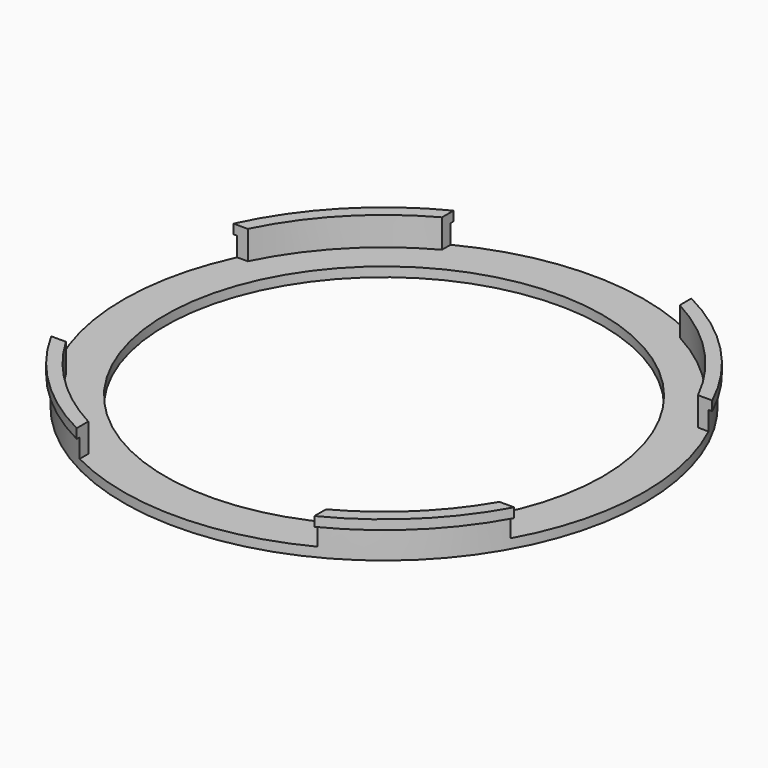
from build123d import *

# Parameters (mm, degrees)
F0_R      = 54.8
F1_DEPTH  = 6
F2_R      = 55.5
F3_DEPTH  = 2
F4_R      = 52.8
F5_DEPTH  = 6
F6_R      = 46
F7_DEPTH  = 25
F8_W      = 50
F8_H      = 120
F9_DEPTH  = 6
F10_W     = 120
F10_H     = 50
F11_DEPTH = 6


with BuildPart() as f1:
    # F0 (on Top) → F1 (new body)
    with BuildSketch(Plane.XY):
        Circle(F0_R)
    extrude(amount=F1_DEPTH)

    # F2 (on face) → F3 (join)
    with BuildSketch(Plane.XY.offset(6)):
        Circle(F2_R)
    extrude(amount=F3_DEPTH)

    # F4 (on face) → F5 (cut)
    with BuildSketch(Plane.XY.offset(8)):
        Circle(F4_R)
    extrude(amount=-F5_DEPTH, mode=Mode.SUBTRACT)

    # F6 (on face) → F7 (cut)
    with BuildSketch(Plane.XY.offset(2)):
        Circle(F6_R)
    extrude(amount=-F7_DEPTH, mode=Mode.SUBTRACT)

    # F8 (on face) → F9 (cut)
    with BuildSketch(Plane.XY.offset(8)):
        Rectangle(F8_W, F8_H)
    extrude(amount=-F9_DEPTH, mode=Mode.SUBTRACT)

    # F10 (on face) → F11 (cut)
    with BuildSketch(Plane.XY.offset(8)):
        with Locations((0, -1.634858)):
            Rectangle(F10_W, F10_H)
    extrude(amount=-F11_DEPTH, mode=Mode.SUBTRACT)


solid = f1.part
